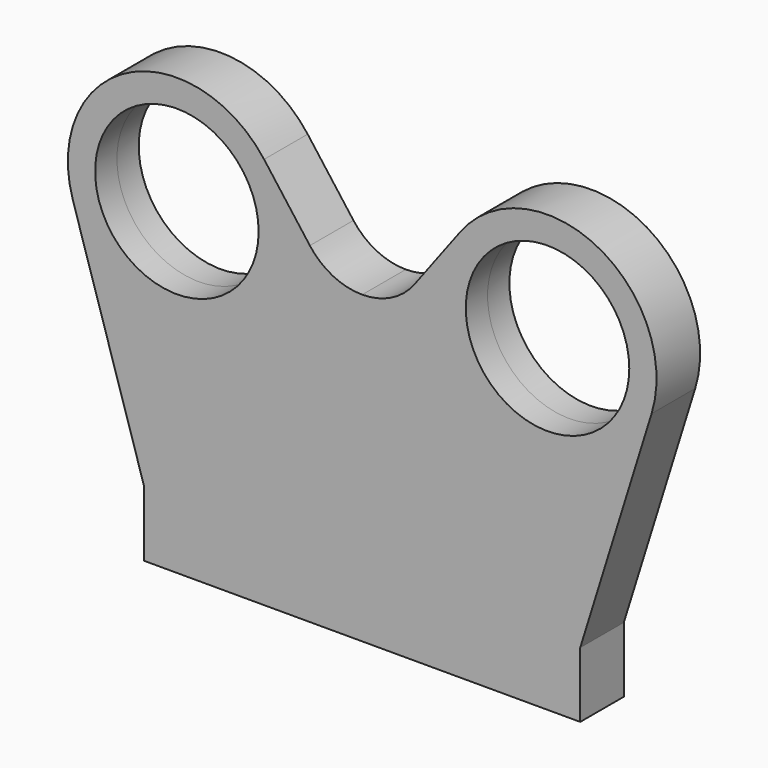
from build123d import *

# Parameters (mm, degrees)
F0_R          = 7.5
F1_DEPTH      = 2.5
F1_DEPTH_BACK = 2.5
F2_R          = 1.2
F3_DEPTH      = 15


with BuildPart() as f1:
    # F0 (on Front) → F1 (new body, two sides)
    with BuildSketch(Plane.XZ) as f1_sk:
        with BuildLine():
            Line((-4.8, 30.4), (-9, 36))
            ThreePointArc((-9, 36), (-21.552852, 38.903457), (-26.547781, 27.026806))
            Line((-26.547781, 27.026806), (-20, 6))
            Line((-20, 6), (-20, 0))
            Line((-20, 0), (0, 0))
            Line((0, 0), (20, 0))
            Line((20, 0), (20, 6))
            Line((20, 6), (26.547781, 27.026806))
            ThreePointArc((26.547781, 27.026806), (21.552852, 38.903457), (9, 36))
            Line((9, 36), (4.8, 30.4))
            ThreePointArc((4.8, 30.4), (2.683282, 28.633437), (0, 28))
            ThreePointArc((0, 28), (-2.683282, 28.633437), (-4.8, 30.4))
        make_face()
        with Locations((-17, 30)):
            Circle(F0_R, mode=Mode.SUBTRACT)
        with Locations((17, 30)):
            Circle(F0_R, mode=Mode.SUBTRACT)
    extrude(amount=F1_DEPTH)
    extrude(f1_sk.sketch, amount=-F1_DEPTH_BACK)

    # F2 (on face) → F3 (cut)
    with BuildSketch(Plane(origin=(0, 0, 0), x_dir=(1, 0, 0), z_dir=(0, 0, -1))):
        with Locations((-15, 0)):
            Circle(F2_R)
        with Locations((15, 0)):
            Circle(F2_R)
    extrude(amount=-F3_DEPTH, mode=Mode.SUBTRACT)


solid = f1.part
